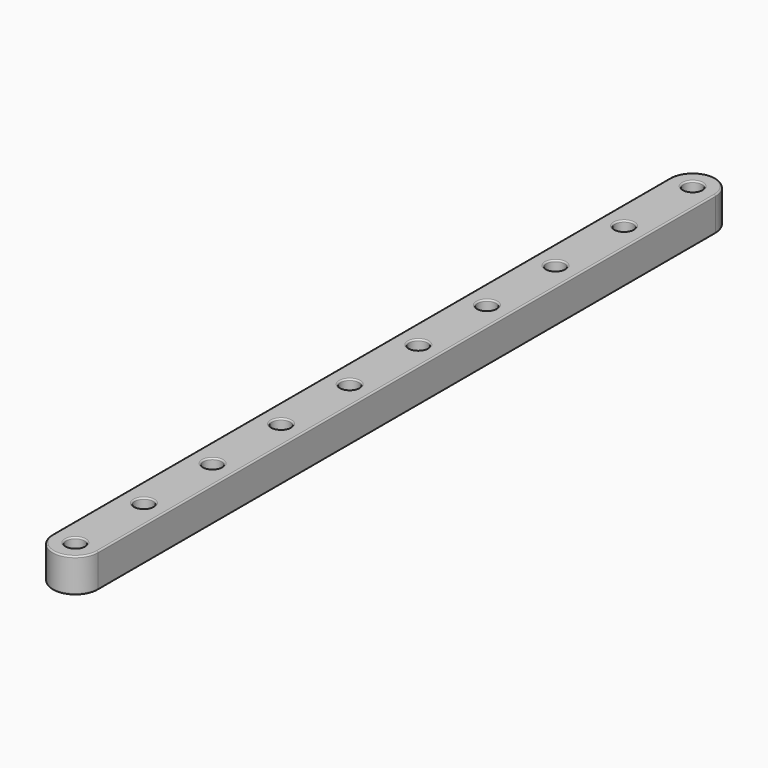
from build123d import *

# Parameters (mm, degrees)
PAD_DEPTH                          = 6
SKETCH001_R                        = 1.6
POCKET_DEPTH                       = 6
SKETCH002_R                        = 3.1
POCKET001_DEPTH                    = 2
SKETCH001_LINEARPATTERN_2_R        = 1.6
POCKET_LINEARPATTERN_2_DEPTH       = 6
SKETCH001_LINEARPATTERN_3_R        = 1.6
POCKET_LINEARPATTERN_3_DEPTH       = 6
SKETCH001_LINEARPATTERN_4_R        = 1.6
POCKET_LINEARPATTERN_4_DEPTH       = 6
SKETCH001_LINEARPATTERN_5_R        = 1.6
POCKET_LINEARPATTERN_5_DEPTH       = 6
SKETCH002_LINEARPATTERN001_2_R     = 3.1
POCKET001_LINEARPATTERN001_2_DEPTH = 2
SKETCH002_LINEARPATTERN001_3_R     = 3.1
POCKET001_LINEARPATTERN001_3_DEPTH = 2
SKETCH002_LINEARPATTERN001_4_R     = 3.1
POCKET001_LINEARPATTERN001_4_DEPTH = 2
SKETCH002_LINEARPATTERN001_5_R     = 3.1
POCKET001_LINEARPATTERN001_5_DEPTH = 2
FILLET_R                           = 0.25


with BuildPart() as part:
    # Sketch → Pad (new body)
    with BuildSketch(Plane.XY):
        with BuildLine():
            Line((0, 67.5), (0, -67.5))
            ThreePointArc((0, -67.5), (4, -71.5), (8, -67.5))
            Line((8, 67.5), (8, -67.5))
            ThreePointArc((8, 67.5), (4, 71.5), (0, 67.5))
        make_face()
    extrude(amount=PAD_DEPTH)

    # Sketch001 → Pocket (cut)
    with BuildSketch(Plane.XY):
        with Locations((4, 7.5)):
            Circle(SKETCH001_R)
    pocket = extrude(amount=POCKET_DEPTH, mode=Mode.SUBTRACT)

    # Sketch002 → Pocket001 (cut)
    with BuildSketch(Plane.XY):
        with Locations((4, 7.5)):
            Circle(SKETCH002_R)
    pocket001 = extrude(amount=POCKET001_DEPTH, mode=Mode.SUBTRACT)

    # Sketch001 LinearPattern 2 → Pocket LinearPattern 2 (cut)
    with BuildSketch(Plane(origin=(0, 15, 0), x_dir=(1, 0, 0), z_dir=(0, 0, 1))):
        with Locations((4, 7.5)):
            Circle(SKETCH001_LINEARPATTERN_2_R)
    pocket_linearpattern_2 = extrude(amount=POCKET_LINEARPATTERN_2_DEPTH, mode=Mode.SUBTRACT)

    # Sketch001 LinearPattern 3 → Pocket LinearPattern 3 (cut)
    with BuildSketch(Plane(origin=(0, 30, 0), x_dir=(1, 0, 0), z_dir=(0, 0, 1))):
        with Locations((4, 7.5)):
            Circle(SKETCH001_LINEARPATTERN_3_R)
    pocket_linearpattern_3 = extrude(amount=POCKET_LINEARPATTERN_3_DEPTH, mode=Mode.SUBTRACT)

    # Sketch001 LinearPattern 4 → Pocket LinearPattern 4 (cut)
    with BuildSketch(Plane(origin=(0, 45, 0), x_dir=(1, 0, 0), z_dir=(0, 0, 1))):
        with Locations((4, 7.5)):
            Circle(SKETCH001_LINEARPATTERN_4_R)
    pocket_linearpattern_4 = extrude(amount=POCKET_LINEARPATTERN_4_DEPTH, mode=Mode.SUBTRACT)

    # Sketch001 LinearPattern 5 → Pocket LinearPattern 5 (cut)
    with BuildSketch(Plane(origin=(0, 60, 0), x_dir=(1, 0, 0), z_dir=(0, 0, 1))):
        with Locations((4, 7.5)):
            Circle(SKETCH001_LINEARPATTERN_5_R)
    pocket_linearpattern_5 = extrude(amount=POCKET_LINEARPATTERN_5_DEPTH, mode=Mode.SUBTRACT)

    # Mirrored: Pocket, Pocket LinearPattern 2, Pocket LinearPattern 3, Pocket LinearPattern 4, Pocket LinearPattern 5 across XZ
    add(pocket.mirror(Plane.XZ), mode=Mode.SUBTRACT)
    add(pocket_linearpattern_2.mirror(Plane.XZ), mode=Mode.SUBTRACT)
    add(pocket_linearpattern_3.mirror(Plane.XZ), mode=Mode.SUBTRACT)
    add(pocket_linearpattern_4.mirror(Plane.XZ), mode=Mode.SUBTRACT)
    add(pocket_linearpattern_5.mirror(Plane.XZ), mode=Mode.SUBTRACT)

    # Sketch002 LinearPattern001 2 → Pocket001 LinearPattern001 2 (cut)
    with BuildSketch(Plane(origin=(0, 15, 0), x_dir=(1, 0, 0), z_dir=(0, 0, 1))):
        with Locations((4, 7.5)):
            Circle(SKETCH002_LINEARPATTERN001_2_R)
    pocket001_linearpattern001_2 = extrude(amount=POCKET001_LINEARPATTERN001_2_DEPTH, mode=Mode.SUBTRACT)

    # Sketch002 LinearPattern001 3 → Pocket001 LinearPattern001 3 (cut)
    with BuildSketch(Plane(origin=(0, 30, 0), x_dir=(1, 0, 0), z_dir=(0, 0, 1))):
        with Locations((4, 7.5)):
            Circle(SKETCH002_LINEARPATTERN001_3_R)
    pocket001_linearpattern001_3 = extrude(amount=POCKET001_LINEARPATTERN001_3_DEPTH, mode=Mode.SUBTRACT)

    # Sketch002 LinearPattern001 4 → Pocket001 LinearPattern001 4 (cut)
    with BuildSketch(Plane(origin=(0, 45, 0), x_dir=(1, 0, 0), z_dir=(0, 0, 1))):
        with Locations((4, 7.5)):
            Circle(SKETCH002_LINEARPATTERN001_4_R)
    pocket001_linearpattern001_4 = extrude(amount=POCKET001_LINEARPATTERN001_4_DEPTH, mode=Mode.SUBTRACT)

    # Sketch002 LinearPattern001 5 → Pocket001 LinearPattern001 5 (cut)
    with BuildSketch(Plane(origin=(0, 60, 0), x_dir=(1, 0, 0), z_dir=(0, 0, 1))):
        with Locations((4, 7.5)):
            Circle(SKETCH002_LINEARPATTERN001_5_R)
    pocket001_linearpattern001_5 = extrude(amount=POCKET001_LINEARPATTERN001_5_DEPTH, mode=Mode.SUBTRACT)

    # Mirrored001: Pocket001, Pocket001 LinearPattern001 2, Pocket001 LinearPattern001 3, Pocket001 LinearPattern001 4, Pocket001 LinearPattern001 5 across XZ
    add(pocket001.mirror(Plane.XZ), mode=Mode.SUBTRACT)
    add(pocket001_linearpattern001_2.mirror(Plane.XZ), mode=Mode.SUBTRACT)
    add(pocket001_linearpattern001_3.mirror(Plane.XZ), mode=Mode.SUBTRACT)
    add(pocket001_linearpattern001_4.mirror(Plane.XZ), mode=Mode.SUBTRACT)
    add(pocket001_linearpattern001_5.mirror(Plane.XZ), mode=Mode.SUBTRACT)

    # Fillet
    fillet_edges = [part.edges().sort_by_distance(p)[0] for p in [
        (4, -71.5, 0),
        (8, 0, 0),
        (0, 0, 0),
        (4, 71.5, 0),
        (4, 71.5, 6),
        (0, 0, 6),
        (8, 0, 6),
        (4, -71.5, 6),
        (2.4, -67.5, 6),
        (2.4, -52.5, 6),
        (2.4, -22.5, 6),
        (2.4, -7.5, 6),
        (2.4, -37.5, 6),
        (2.4, 7.5, 6),
        (2.4, 22.5, 6),
        (2.4, 37.5, 6),
        (2.4, 52.5, 6),
        (2.4, 67.5, 6),
        (0.9, 37.5, 0),
        (2.4, -67.5, 2),
        (0.9, -67.5, 0),
        (2.4, -52.5, 2),
        (0.9, 67.5, 0),
        (2.4, -22.5, 2),
        (0.9, -37.5, 0),
        (2.4, -7.5, 2),
        (0.9, -22.5, 0),
        (2.4, -37.5, 2),
        (0.9, 52.5, 0),
        (2.4, 7.5, 2),
        (0.9, -52.5, 0),
        (2.4, 22.5, 2),
        (0.9, -7.5, 0),
        (2.4, 37.5, 2),
        (0.9, 22.5, 0),
        (2.4, 52.5, 2),
        (0.9, 7.5, 0),
        (2.4, 67.5, 2),
    ]]
    fillet(fillet_edges, radius=FILLET_R)


solid = part.part
